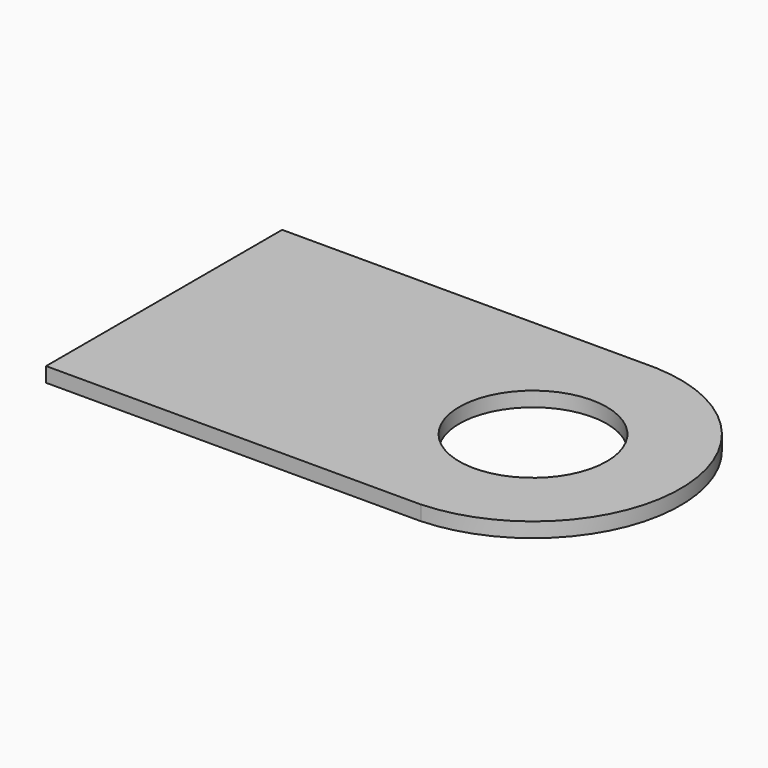
from build123d import *

# Parameters (mm, degrees)
CYLINDER023_R     = 0.5
CYLINDER023_DEPTH = 0.1
BOX010_W          = 2.54
BOX010_H          = 2
BOX010_DEPTH      = 0.1
CYLINDER022_R     = 0.5
CYLINDER022_DEPTH = 0.1
CYLINDER021_R     = 1
CYLINDER021_DEPTH = 0.1


with BuildPart() as cylinder023:
    # Cylinder023 → Cylinder023 (new body)
    with BuildSketch(Plane.XY.offset(1)):
        Circle(CYLINDER023_R)
    extrude(amount=CYLINDER023_DEPTH)


with BuildPart() as cut016:
    # Box010 → Box010 (new body)
    with BuildSketch(Plane(origin=(-2.5, -1, 1), x_dir=(1, 0, 0), z_dir=(0, 0, 1))):
        with Locations((1.27, 1)):
            Rectangle(BOX010_W, BOX010_H)
    extrude(amount=BOX010_DEPTH)

    # Cut016: cut Cylinder023
    add(cylinder023.part, mode=Mode.SUBTRACT)


with BuildPart() as cylinder022:
    # Cylinder022 → Cylinder022 (new body)
    with BuildSketch(Plane.XY.offset(1)):
        Circle(CYLINDER022_R)
    extrude(amount=CYLINDER022_DEPTH)


with BuildPart() as fusion007:
    # Cylinder021 → Cylinder021 (new body)
    with BuildSketch(Plane.XY.offset(1)):
        Circle(CYLINDER021_R)
    extrude(amount=CYLINDER021_DEPTH)

    # Cut015: cut Cylinder022
    add(cylinder022.part, mode=Mode.SUBTRACT)

    # Fusion007: union Cut016
    add(cut016.part)


with BuildPart() as fusion007_1:
    # Fusion007 placement: moved
    add(fusion007.part.moved(Location((0, -17.78, 5.5))))


solid = fusion007_1.part
